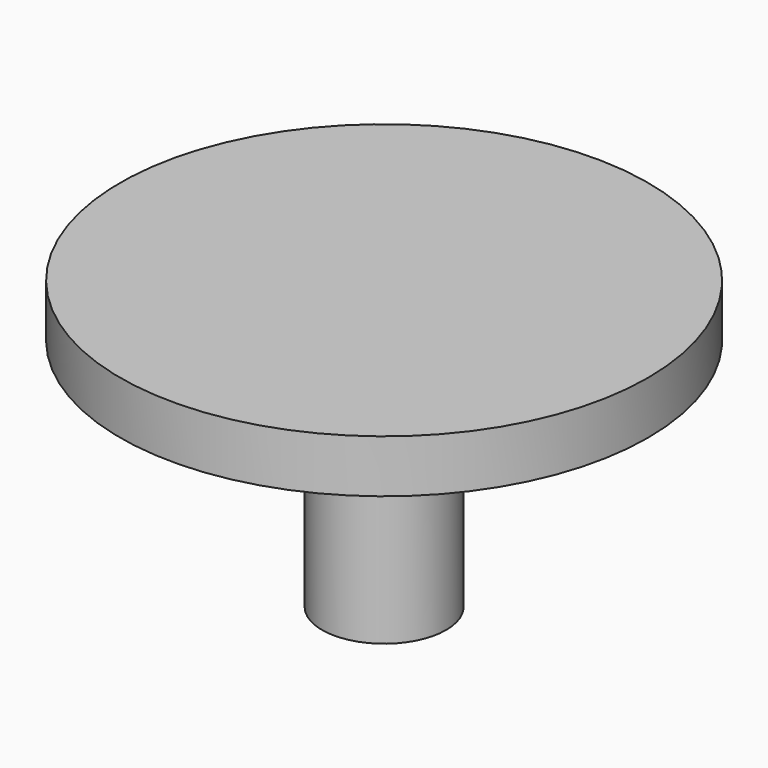
from build123d import *

# Parameters (mm, degrees)
F0_R       = 2.35
F1_DEPTH   = 7.5
F2_R       = 10
F3_DEPTH   = 2
F4_R       = 5.65
F1_FACE1_R = 2.35
F5_DEPTH   = 1.4


with BuildPart() as f1:
    # F0 (on Top) → F1 (new body)
    with BuildSketch(Plane.XY):
        Circle(F0_R)
    extrude(amount=F1_DEPTH)

    # F2 (on face) → F3 (join)
    with BuildSketch(Plane.XY.offset(7.5)):
        Circle(F2_R)
    extrude(amount=F3_DEPTH)

    # F4 (on face) + F1_face1 (on face) → F5 (join)
    with BuildSketch(Plane(origin=(0, 0, 7.5), x_dir=(1, 0, 0), z_dir=(0, 0, -1))):
        Circle(F4_R)
    with BuildSketch(Plane(origin=(0, 0, 0), x_dir=(1, 0, 0), z_dir=(0, 0, -1))):
        Circle(F1_FACE1_R)
    extrude(amount=F5_DEPTH)


solid = f1.part
